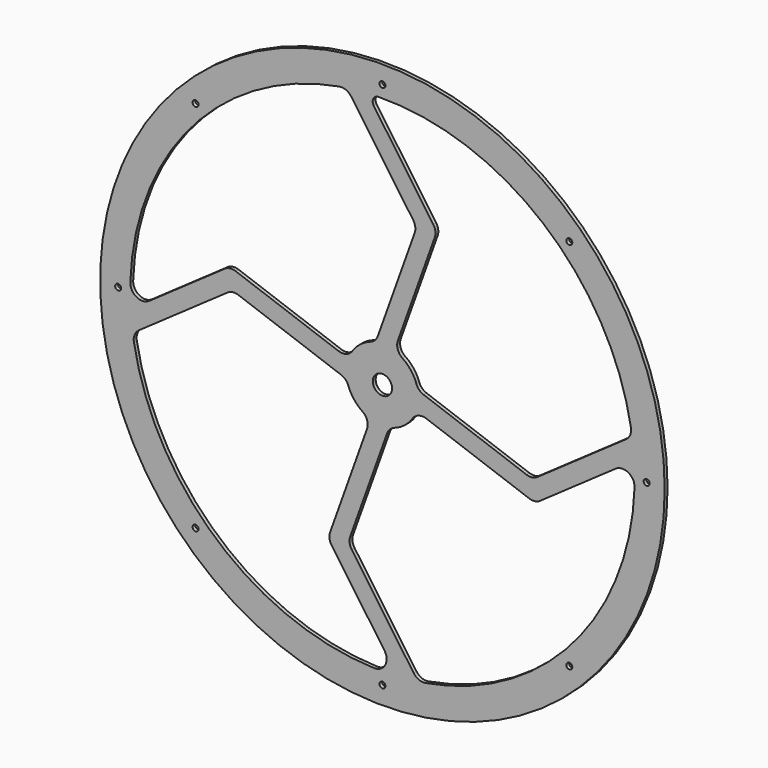
from build123d import *

# Parameters (mm, degrees)
F0_R     = 235
F0_R_2   = 2.5
F0_R_3   = 8
F1_DEPTH = 3


with BuildPart() as f1:
    # F0 (on Front) → F1 (new body)
    with BuildSketch(Plane.XZ):
        Circle(F0_R)
        with Locations((-155.563492, -155.563492)):
            Circle(F0_R_2, mode=Mode.SUBTRACT)
        with BuildLine():
            ThreePointArc((-129.064274, 25.601808), (-124.657231, 27.32162), (-119.952823, 26.823297))
            Line((-119.952823, 26.823297), (-34.352843, -3.874505))
            ThreePointArc((-34.352843, -3.874505), (-30.637301, -6.236665), (-28.296397, -9.965636))
            ThreePointArc((-28.296397, -9.965636), (-23.711827, -18.377956), (-16.709034, -24.916022))
            ThreePointArc((-16.709034, -24.916022), (-12.779669, -30.095956), (-12.865703, -36.59705))
            Line((-12.865703, -36.59705), (-43.563506, -122.197029))
            ThreePointArc((-43.563506, -122.197029), (-44.061828, -126.901437), (-42.342017, -131.30848))
            Line((-42.342017, -131.30848), (1.665505, -194.157735))
            ThreePointArc((1.665505, -194.157735), (2.267567, -204.655106), (-6.852316, -209.888174))
            ThreePointArc((-6.852316, -209.888174), (-137.800831, -158.464289), (-206.904803, -35.922171))
            ThreePointArc((-206.904803, -35.922171), (-206.28595, -30.372613), (-202.787958, -26.020071))
            Line((-202.787958, -26.020071), (-129.064274, 25.601808))
        make_face(mode=Mode.SUBTRACT)
        with Locations((0, -220)):
            Circle(F0_R_2, mode=Mode.SUBTRACT)
        with Locations((155.563492, -155.563492)):
            Circle(F0_R_2, mode=Mode.SUBTRACT)
        with BuildLine():
            ThreePointArc((24.916022, -16.709034), (30.095956, -12.779669), (36.59705, -12.865703))
            Line((36.59705, -12.865703), (122.197029, -43.563506))
            ThreePointArc((122.197029, -43.563506), (126.901437, -44.061828), (131.30848, -42.342017))
            Line((131.30848, -42.342017), (194.157735, 1.665505))
            ThreePointArc((194.157735, 1.665505), (204.655106, 2.267567), (209.888174, -6.852316))
            ThreePointArc((209.888174, -6.852316), (158.464289, -137.800831), (35.922171, -206.904803))
            ThreePointArc((35.922171, -206.904803), (30.372613, -206.28595), (26.020071, -202.787958))
            Line((26.020071, -202.787958), (-25.601808, -129.064274))
            ThreePointArc((-25.601808, -129.064274), (-27.32162, -124.657231), (-26.823297, -119.952823))
            Line((-26.823297, -119.952823), (3.874505, -34.352843))
            ThreePointArc((3.874505, -34.352843), (6.236665, -30.637301), (9.965636, -28.296397))
            ThreePointArc((9.965636, -28.296397), (18.377956, -23.711827), (24.916022, -16.709034))
        make_face(mode=Mode.SUBTRACT)
        with Locations((-220, 0)):
            Circle(F0_R_2, mode=Mode.SUBTRACT)
        with BuildLine():
            ThreePointArc((-3.874505, 34.352843), (-6.236665, 30.637301), (-9.965636, 28.296397))
            ThreePointArc((-9.965636, 28.296397), (-18.377956, 23.711827), (-24.916022, 16.709034))
            ThreePointArc((-24.916022, 16.709034), (-30.095956, 12.779669), (-36.59705, 12.865703))
            Line((-36.59705, 12.865703), (-122.197029, 43.563506))
            ThreePointArc((-122.197029, 43.563506), (-126.901437, 44.061828), (-131.30848, 42.342017))
            Line((-131.30848, 42.342017), (-194.157735, -1.665505))
            ThreePointArc((-194.157735, -1.665505), (-204.655106, -2.267567), (-209.888174, 6.852316))
            ThreePointArc((-209.888174, 6.852316), (-158.464289, 137.800831), (-35.922171, 206.904803))
            ThreePointArc((-35.922171, 206.904803), (-30.372613, 206.28595), (-26.020071, 202.787958))
            Line((-26.020071, 202.787958), (25.601808, 129.064274))
            ThreePointArc((25.601808, 129.064274), (27.32162, 124.657231), (26.823297, 119.952823))
            Line((26.823297, 119.952823), (-3.874505, 34.352843))
        make_face(mode=Mode.SUBTRACT)
        with Locations((-155.563492, 155.563492)):
            Circle(F0_R_2, mode=Mode.SUBTRACT)
        Circle(F0_R_3, mode=Mode.SUBTRACT)
        with BuildLine():
            ThreePointArc((-3.213168, 209.975417), (133.963441, 161.721354), (206.904803, 35.922171))
            ThreePointArc((206.904803, 35.922171), (206.28595, 30.372613), (202.787958, 26.020071))
            Line((202.787958, 26.020071), (129.064274, -25.601808))
            ThreePointArc((129.064274, -25.601808), (124.657231, -27.32162), (119.952823, -26.823297))
            Line((119.952823, -26.823297), (34.352843, 3.874505))
            ThreePointArc((34.352843, 3.874505), (30.637301, 6.236665), (28.296397, 9.965636))
            ThreePointArc((28.296397, 9.965636), (23.711827, 18.377956), (16.709034, 24.916022))
            ThreePointArc((16.709034, 24.916022), (12.779669, 30.095956), (12.865703, 36.59705))
            Line((12.865703, 36.59705), (43.563506, 122.197029))
            ThreePointArc((43.563506, 122.197029), (44.061828, 126.901437), (42.342017, 131.30848))
            Line((42.342017, 131.30848), (-7.232424, 202.10812))
            ThreePointArc((-7.232424, 202.10812), (-7.589252, 207.250746), (-3.213168, 209.975417))
        make_face(mode=Mode.SUBTRACT)
        with Locations((220, 0)):
            Circle(F0_R_2, mode=Mode.SUBTRACT)
        with Locations((0, 220)):
            Circle(F0_R_2, mode=Mode.SUBTRACT)
        with Locations((155.563492, 155.563492)):
            Circle(F0_R_2, mode=Mode.SUBTRACT)
    extrude(amount=F1_DEPTH)


solid = f1.part
